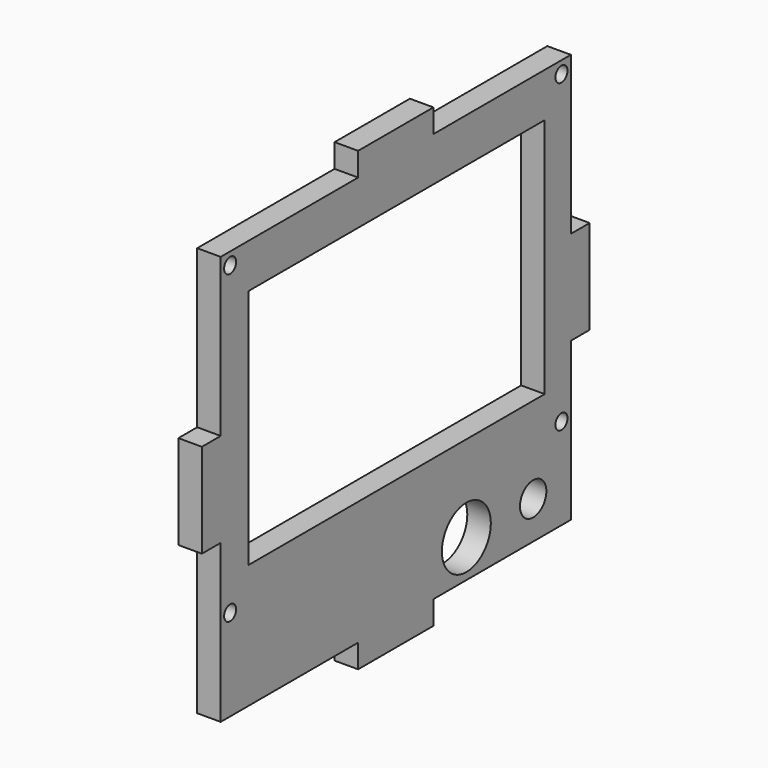
from build123d import *

# Parameters (mm, degrees)
F1_R     = 1.6
F1_R_2   = 6.5
F1_R_3   = 3.5
F1_W     = 78.7
F1_H     = 51.25
F1_W_2   = 20
F1_H_2   = 5
F1_W_3   = 5
F1_H_3   = 20
F2_DEPTH = 5


with BuildPart() as f2:
    # F1 (on Right) → F2 (new body)
    with BuildSketch(Plane.YZ):
        Polygon((36.5, 87), (0, 87), (0, 53.5), (0, 33.5), (0, 0), (36.5, 0), (56.5, 0), (93, 0), (93, 33.5), (93, 53.5), (93, 87), (56.5, 87), align=None)
        with Locations((2.5, 19.4)):
            Circle(F1_R, mode=Mode.SUBTRACT)
        with Locations((65.25, 8)):
            Circle(F1_R_2, mode=Mode.SUBTRACT)
        with Locations((83, 8)):
            Circle(F1_R_3, mode=Mode.SUBTRACT)
        with Locations((90.5, 19.4)):
            Circle(F1_R, mode=Mode.SUBTRACT)
        with Locations((2.5, 84.4)):
            Circle(F1_R, mode=Mode.SUBTRACT)
        with Locations((46.7, 51.975)):
            Rectangle(F1_W, F1_H, mode=Mode.SUBTRACT)
        with Locations((90.5, 84.4)):
            Circle(F1_R, mode=Mode.SUBTRACT)
        with Locations((46.5, 89.5)):
            Rectangle(F1_W_2, F1_H_2)
        with Locations((-2.5, 43.5)):
            Rectangle(F1_W_3, F1_H_3)
        with Locations((95.5, 43.5)):
            Rectangle(F1_W_3, F1_H_3)
        with Locations((46.5, -2.5)):
            Rectangle(F1_W_2, F1_H_2)
    extrude(amount=F2_DEPTH)


solid = f2.part
